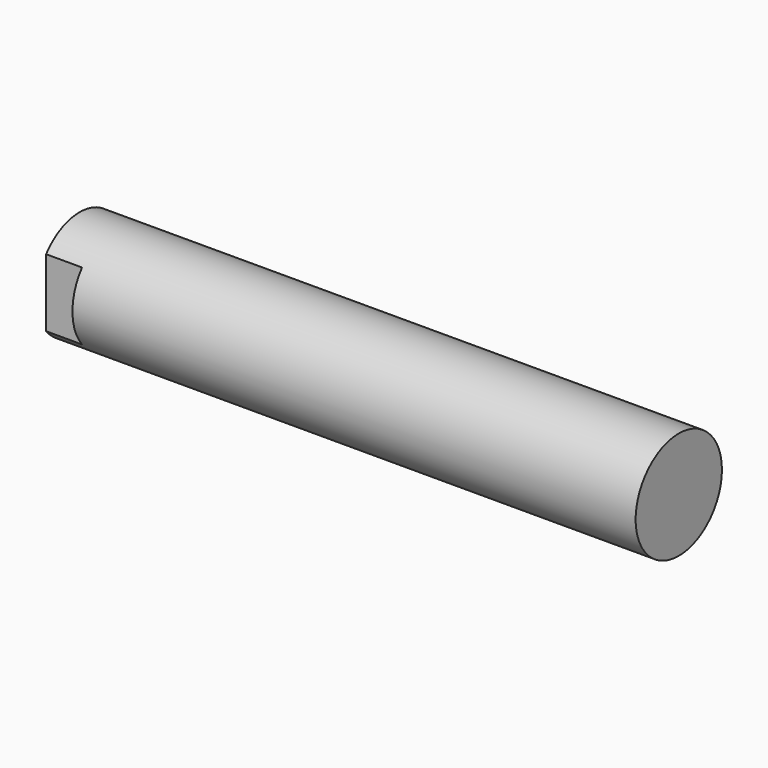
from build123d import *

# Parameters (mm, degrees)
F0_R     = 9
F1_DEPTH = 100
F2_W     = 2
F2_H     = 62.305753
F2_H_2   = 60.352681
F3_DEPTH = 6


with BuildPart() as f1:
    # F0 (on Right) → F1 (new body)
    with BuildSketch(Plane.YZ):
        Circle(F0_R)
    extrude(amount=F1_DEPTH)

    # F2 (on Right) → F3 (cut, symmetric)
    with BuildSketch(Plane.YZ):
        with Locations((-8, -0.700639)):
            Rectangle(F2_W, F2_H)
        with Locations((8, -0.262435)):
            Rectangle(F2_W, F2_H_2)
    extrude(amount=F3_DEPTH, both=True, mode=Mode.SUBTRACT)


solid = f1.part
